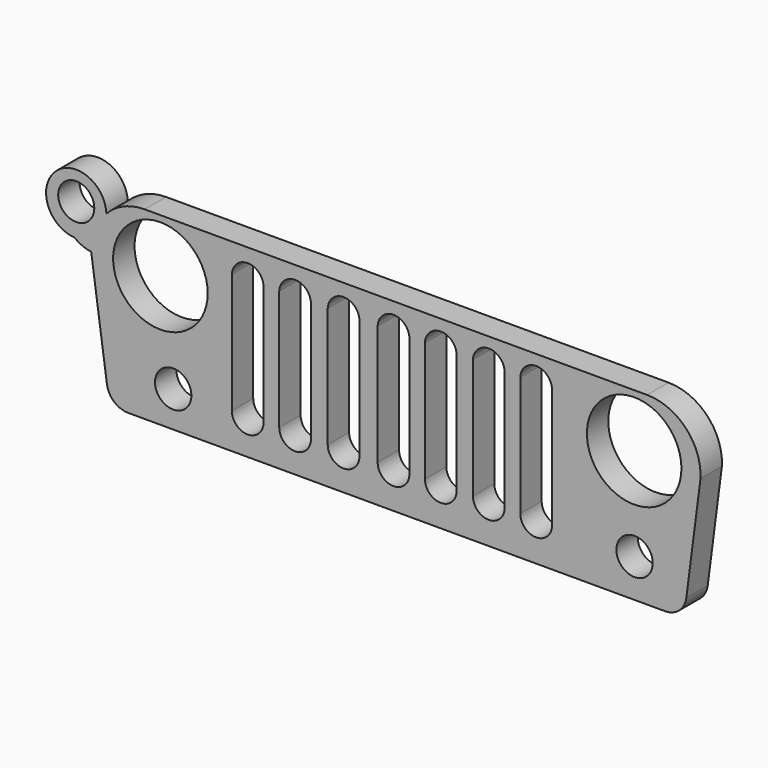
from build123d import *

# Parameters (mm, degrees)
F0_R     = 2.157429
F0_R_2   = 5.60947
F1_DEPTH = 3.175
F0_R_3   = 2.141456
F2_DEPTH = 0.004921
F3_DEPTH = 3.175


with BuildPart() as f1:
    # F0 (on Front) → F1 (new body)
    with BuildSketch(Plane.XZ):
        with BuildLine():
            Line((19.481216, 38.301506), (-40.142396, 38.301506))
            ThreePointArc((-40.142396, 38.301506), (-42.607797, 37.803368), (-44.686392, 36.387111))
            ThreePointArc((-44.686392, 36.387111), (-46.052064, 34.274936), (-46.490546, 31.798229))
            Line((-46.490546, 31.798229), (-44.625234, 18.579618))
            ThreePointArc((-44.625234, 18.579618), (-43.776004, 17.017098), (-42.110151, 16.394528))
            Line((-42.110151, 16.394528), (21.620648, 16.394528))
            ThreePointArc((21.620648, 16.394528), (23.297675, 17.026865), (24.139706, 18.609033))
            Line((24.139706, 18.609033), (25.823629, 31.641185))
            ThreePointArc((25.823629, 31.641185), (24.07975, 36.330545), (19.481216, 38.301506))
        make_face()
        with Locations((-36.75957, 20.633117)):
            Circle(F0_R, mode=Mode.SUBTRACT)
        with BuildLine():
            Line((-29.799683, 20.633117), (-29.799683, 34.853889))
            ThreePointArc((-29.799683, 34.853889), (-27.878732, 36.660702), (-26.0331, 34.777018))
            Line((-26.0331, 34.777018), (-26.0331, 20.556246))
            ThreePointArc((-26.0331, 20.556246), (-27.954051, 18.749433), (-29.799683, 20.633117))
        make_face(mode=Mode.SUBTRACT)
        with BuildLine():
            Line((-24.176236, 20.709988), (-24.176236, 34.93076))
            ThreePointArc((-24.176236, 34.93076), (-22.255285, 36.737572), (-20.409653, 34.853889))
            Line((-20.409653, 34.853889), (-20.409653, 20.633116))
            ThreePointArc((-20.409653, 20.633116), (-22.330604, 18.826304), (-24.176236, 20.709988))
        make_face(mode=Mode.SUBTRACT)
        with BuildLine():
            Line((-18.419787, 20.786859), (-18.419787, 35.007631))
            ThreePointArc((-18.419787, 35.007631), (-16.498836, 36.814444), (-14.653204, 34.93076))
            Line((-14.653204, 34.93076), (-14.653204, 20.709988))
            ThreePointArc((-14.653204, 20.709988), (-16.574155, 18.903175), (-18.419787, 20.786859))
        make_face(mode=Mode.SUBTRACT)
        with Locations((17.996946, 20.940602)):
            Circle(F0_R, mode=Mode.SUBTRACT)
        with BuildLine():
            Line((-12.493486, 20.86373), (-12.493486, 35.084503))
            ThreePointArc((-12.493486, 35.084503), (-10.572535, 36.891315), (-8.726902, 35.007631))
            Line((-8.726902, 35.007631), (-8.726902, 20.786859))
            ThreePointArc((-8.726902, 20.786859), (-10.647853, 18.980047), (-12.493486, 20.86373))
        make_face(mode=Mode.SUBTRACT)
        with BuildLine():
            Line((-6.886294, 20.940602), (-6.886294, 35.161374))
            ThreePointArc((-6.886294, 35.161374), (-4.965343, 36.968187), (-3.11971, 35.084503))
            Line((-3.11971, 35.084503), (-3.11971, 20.86373))
            ThreePointArc((-3.11971, 20.86373), (-5.040661, 19.056918), (-6.886294, 20.940602))
        make_face(mode=Mode.SUBTRACT)
        with BuildLine():
            Line((-1.18931, 21.017473), (-1.18931, 35.238246))
            ThreePointArc((-1.18931, 35.238246), (0.73164, 37.045058), (2.577273, 35.161374))
            Line((2.577273, 35.161374), (2.577273, 20.940602))
            ThreePointArc((2.577273, 20.940602), (0.656322, 19.133789), (-1.18931, 21.017473))
        make_face(mode=Mode.SUBTRACT)
        with BuildLine():
            Line((4.431474, 21.017473), (4.431474, 35.238246))
            ThreePointArc((4.431474, 35.238246), (6.352424, 37.045058), (8.198057, 35.161374))
            Line((8.198057, 35.161374), (8.198057, 20.940602))
            ThreePointArc((8.198057, 20.940602), (6.277106, 19.133789), (4.431474, 21.017473))
        make_face(mode=Mode.SUBTRACT)
        with Locations((-38.274463, 31.951506)):
            Circle(F0_R_2, mode=Mode.SUBTRACT)
        with Locations((17.949626, 31.951506)):
            Circle(F0_R_2, mode=Mode.SUBTRACT)
    extrude(amount=F1_DEPTH)

    # F0 (on Front) → F2 (join)
    with BuildSketch(Plane.XZ):
        with BuildLine():
            Line((19.481216, 38.301506), (-40.142396, 38.301506))
            ThreePointArc((-40.142396, 38.301506), (-42.607797, 37.803368), (-44.686392, 36.387111))
            ThreePointArc((-44.686392, 36.387111), (-46.052064, 34.274936), (-46.490546, 31.798229))
            Line((-46.490546, 31.798229), (-44.625234, 18.579618))
            ThreePointArc((-44.625234, 18.579618), (-43.776004, 17.017098), (-42.110151, 16.394528))
            Line((-42.110151, 16.394528), (21.620648, 16.394528))
            ThreePointArc((21.620648, 16.394528), (23.297675, 17.026865), (24.139706, 18.609033))
            Line((24.139706, 18.609033), (25.823629, 31.641185))
            ThreePointArc((25.823629, 31.641185), (24.07975, 36.330545), (19.481216, 38.301506))
        make_face()
        with Locations((-36.75957, 20.633117)):
            Circle(F0_R, mode=Mode.SUBTRACT)
        with BuildLine():
            Line((-29.799683, 20.633117), (-29.799683, 34.853889))
            ThreePointArc((-29.799683, 34.853889), (-27.878732, 36.660702), (-26.0331, 34.777018))
            Line((-26.0331, 34.777018), (-26.0331, 20.556246))
            ThreePointArc((-26.0331, 20.556246), (-27.954051, 18.749433), (-29.799683, 20.633117))
        make_face(mode=Mode.SUBTRACT)
        with BuildLine():
            Line((-24.176236, 20.709988), (-24.176236, 34.93076))
            ThreePointArc((-24.176236, 34.93076), (-22.255285, 36.737572), (-20.409653, 34.853889))
            Line((-20.409653, 34.853889), (-20.409653, 20.633116))
            ThreePointArc((-20.409653, 20.633116), (-22.330604, 18.826304), (-24.176236, 20.709988))
        make_face(mode=Mode.SUBTRACT)
        with BuildLine():
            Line((-18.419787, 20.786859), (-18.419787, 35.007631))
            ThreePointArc((-18.419787, 35.007631), (-16.498836, 36.814444), (-14.653204, 34.93076))
            Line((-14.653204, 34.93076), (-14.653204, 20.709988))
            ThreePointArc((-14.653204, 20.709988), (-16.574155, 18.903175), (-18.419787, 20.786859))
        make_face(mode=Mode.SUBTRACT)
        with Locations((17.996946, 20.940602)):
            Circle(F0_R, mode=Mode.SUBTRACT)
        with BuildLine():
            Line((-12.493486, 20.86373), (-12.493486, 35.084503))
            ThreePointArc((-12.493486, 35.084503), (-10.572535, 36.891315), (-8.726902, 35.007631))
            Line((-8.726902, 35.007631), (-8.726902, 20.786859))
            ThreePointArc((-8.726902, 20.786859), (-10.647853, 18.980047), (-12.493486, 20.86373))
        make_face(mode=Mode.SUBTRACT)
        with BuildLine():
            Line((-6.886294, 20.940602), (-6.886294, 35.161374))
            ThreePointArc((-6.886294, 35.161374), (-4.965343, 36.968187), (-3.11971, 35.084503))
            Line((-3.11971, 35.084503), (-3.11971, 20.86373))
            ThreePointArc((-3.11971, 20.86373), (-5.040661, 19.056918), (-6.886294, 20.940602))
        make_face(mode=Mode.SUBTRACT)
        with BuildLine():
            Line((-1.18931, 21.017473), (-1.18931, 35.238246))
            ThreePointArc((-1.18931, 35.238246), (0.73164, 37.045058), (2.577273, 35.161374))
            Line((2.577273, 35.161374), (2.577273, 20.940602))
            ThreePointArc((2.577273, 20.940602), (0.656322, 19.133789), (-1.18931, 21.017473))
        make_face(mode=Mode.SUBTRACT)
        with BuildLine():
            Line((4.431474, 21.017473), (4.431474, 35.238246))
            ThreePointArc((4.431474, 35.238246), (6.352424, 37.045058), (8.198057, 35.161374))
            Line((8.198057, 35.161374), (8.198057, 20.940602))
            ThreePointArc((8.198057, 20.940602), (6.277106, 19.133789), (4.431474, 21.017473))
        make_face(mode=Mode.SUBTRACT)
        with Locations((-38.274463, 31.951506)):
            Circle(F0_R_2, mode=Mode.SUBTRACT)
        with Locations((17.949626, 31.951506)):
            Circle(F0_R_2, mode=Mode.SUBTRACT)
        with BuildLine():
            ThreePointArc((-46.490546, 31.798229), (-46.052064, 34.274936), (-44.686392, 36.387111))
            ThreePointArc((-44.686392, 36.387111), (-50.775954, 38.77664), (-48.483074, 32.650033))
            ThreePointArc((-48.483074, 32.650033), (-47.542505, 32.09385), (-46.490546, 31.798229))
        make_face()
        with Locations((-48.263825, 36.469538)):
            Circle(F0_R_3, mode=Mode.SUBTRACT)
    extrude(amount=F2_DEPTH)

    # F0 (on Front) → F3 (join)
    with BuildSketch(Plane.XZ):
        with BuildLine():
            Line((19.481216, 38.301506), (-40.142396, 38.301506))
            ThreePointArc((-40.142396, 38.301506), (-42.607797, 37.803368), (-44.686392, 36.387111))
            ThreePointArc((-44.686392, 36.387111), (-46.052064, 34.274936), (-46.490546, 31.798229))
            Line((-46.490546, 31.798229), (-44.625234, 18.579618))
            ThreePointArc((-44.625234, 18.579618), (-43.776004, 17.017098), (-42.110151, 16.394528))
            Line((-42.110151, 16.394528), (21.620648, 16.394528))
            ThreePointArc((21.620648, 16.394528), (23.297675, 17.026865), (24.139706, 18.609033))
            Line((24.139706, 18.609033), (25.823629, 31.641185))
            ThreePointArc((25.823629, 31.641185), (24.07975, 36.330545), (19.481216, 38.301506))
        make_face()
        with Locations((-36.75957, 20.633117)):
            Circle(F0_R, mode=Mode.SUBTRACT)
        with BuildLine():
            Line((-29.799683, 20.633117), (-29.799683, 34.853889))
            ThreePointArc((-29.799683, 34.853889), (-27.878732, 36.660702), (-26.0331, 34.777018))
            Line((-26.0331, 34.777018), (-26.0331, 20.556246))
            ThreePointArc((-26.0331, 20.556246), (-27.954051, 18.749433), (-29.799683, 20.633117))
        make_face(mode=Mode.SUBTRACT)
        with BuildLine():
            Line((-24.176236, 20.709988), (-24.176236, 34.93076))
            ThreePointArc((-24.176236, 34.93076), (-22.255285, 36.737572), (-20.409653, 34.853889))
            Line((-20.409653, 34.853889), (-20.409653, 20.633116))
            ThreePointArc((-20.409653, 20.633116), (-22.330604, 18.826304), (-24.176236, 20.709988))
        make_face(mode=Mode.SUBTRACT)
        with BuildLine():
            Line((-18.419787, 20.786859), (-18.419787, 35.007631))
            ThreePointArc((-18.419787, 35.007631), (-16.498836, 36.814444), (-14.653204, 34.93076))
            Line((-14.653204, 34.93076), (-14.653204, 20.709988))
            ThreePointArc((-14.653204, 20.709988), (-16.574155, 18.903175), (-18.419787, 20.786859))
        make_face(mode=Mode.SUBTRACT)
        with Locations((17.996946, 20.940602)):
            Circle(F0_R, mode=Mode.SUBTRACT)
        with BuildLine():
            Line((-12.493486, 20.86373), (-12.493486, 35.084503))
            ThreePointArc((-12.493486, 35.084503), (-10.572535, 36.891315), (-8.726902, 35.007631))
            Line((-8.726902, 35.007631), (-8.726902, 20.786859))
            ThreePointArc((-8.726902, 20.786859), (-10.647853, 18.980047), (-12.493486, 20.86373))
        make_face(mode=Mode.SUBTRACT)
        with BuildLine():
            Line((-6.886294, 20.940602), (-6.886294, 35.161374))
            ThreePointArc((-6.886294, 35.161374), (-4.965343, 36.968187), (-3.11971, 35.084503))
            Line((-3.11971, 35.084503), (-3.11971, 20.86373))
            ThreePointArc((-3.11971, 20.86373), (-5.040661, 19.056918), (-6.886294, 20.940602))
        make_face(mode=Mode.SUBTRACT)
        with BuildLine():
            Line((-1.18931, 21.017473), (-1.18931, 35.238246))
            ThreePointArc((-1.18931, 35.238246), (0.73164, 37.045058), (2.577273, 35.161374))
            Line((2.577273, 35.161374), (2.577273, 20.940602))
            ThreePointArc((2.577273, 20.940602), (0.656322, 19.133789), (-1.18931, 21.017473))
        make_face(mode=Mode.SUBTRACT)
        with BuildLine():
            Line((4.431474, 21.017473), (4.431474, 35.238246))
            ThreePointArc((4.431474, 35.238246), (6.352424, 37.045058), (8.198057, 35.161374))
            Line((8.198057, 35.161374), (8.198057, 20.940602))
            ThreePointArc((8.198057, 20.940602), (6.277106, 19.133789), (4.431474, 21.017473))
        make_face(mode=Mode.SUBTRACT)
        with Locations((-38.274463, 31.951506)):
            Circle(F0_R_2, mode=Mode.SUBTRACT)
        with Locations((17.949626, 31.951506)):
            Circle(F0_R_2, mode=Mode.SUBTRACT)
        with BuildLine():
            ThreePointArc((-46.490546, 31.798229), (-46.052064, 34.274936), (-44.686392, 36.387111))
            ThreePointArc((-44.686392, 36.387111), (-50.775954, 38.77664), (-48.483074, 32.650033))
            ThreePointArc((-48.483074, 32.650033), (-47.542505, 32.09385), (-46.490546, 31.798229))
        make_face()
        with Locations((-48.263825, 36.469538)):
            Circle(F0_R_3, mode=Mode.SUBTRACT)
    extrude(amount=F3_DEPTH)


solid = f1.part
